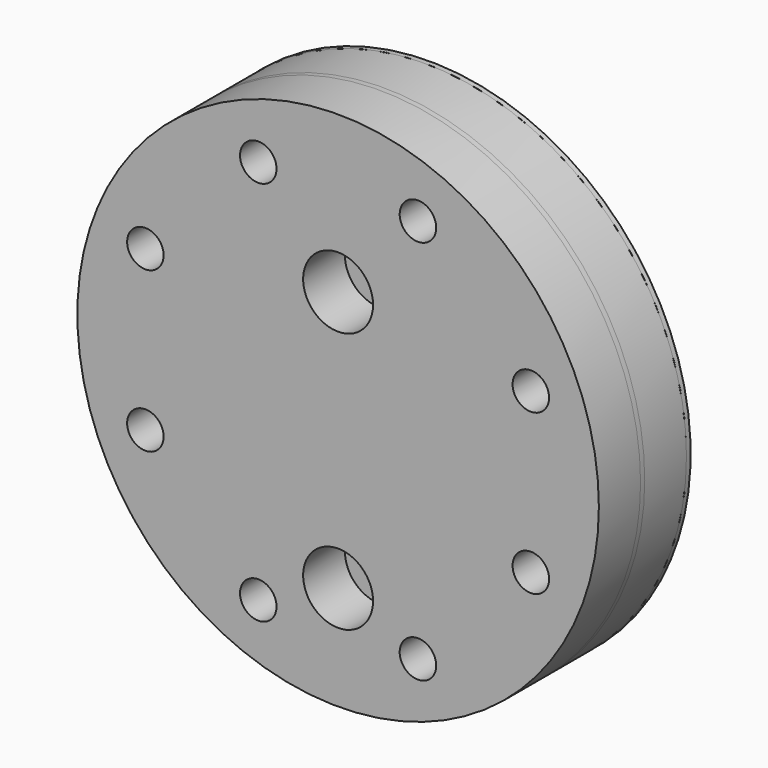
from build123d import *

# Parameters (mm, degrees)
F1_R      = 25
F1_R_2    = 15
F2_DEPTH  = 5
F0_R      = 1.75
F3_DEPTH  = 5.001
F4_DEPTH  = 0.5
F5_R      = 25
F6_DEPTH  = 5
F7_DEPTH  = 10.501
F8_R      = 3.35
F9_DEPTH  = 10.501
F10_R     = 1.25
F11_DEPTH = 5.501
F12_R     = 25
F12_R_2   = 1.75
F13_DEPTH = 0.5


with BuildPart() as f2:
    # F1 (on Front) → F2 (new body)
    with BuildSketch(Plane.XZ):
        Circle(F1_R)
        Circle(F1_R_2, mode=Mode.SUBTRACT)
    extrude(amount=F2_DEPTH)

    # F0 (on Front) → F3 (cut, through all)
    with BuildSketch(Plane.XZ):
        with Locations((7.6536686473, -18.4775906502)):
            Circle(F0_R)
        with Locations((18.4775906502, -7.6536686473)):
            Circle(F0_R)
        with Locations((18.4775906502, 7.6536686473)):
            Circle(F0_R)
        with Locations((7.6536686473, 18.4775906502)):
            Circle(F0_R)
        with Locations((-7.6536686473, 18.4775906502)):
            Circle(F0_R)
        with Locations((-18.4775906502, 7.6536686473)):
            Circle(F0_R)
        with Locations((-18.4775906502, -7.6536686473)):
            Circle(F0_R)
        with Locations((-7.6536686473, -18.4775906502)):
            Circle(F0_R)
    extrude(amount=F3_DEPTH, mode=Mode.SUBTRACT)


with BuildPart() as f4:
    # F4 (new): a face of the model
    f4_faces = [f2.part.faces().sort_by_distance(p)[0] for p in [
        (-24.2928932188, -5, 0),
    ]]
    extrude(f4_faces, amount=F4_DEPTH)


with BuildPart() as f6:
    # F5 (on face) → F6 (new body)
    with BuildSketch(Plane.XZ.offset(5.5)):
        Circle(F5_R)
    extrude(amount=F6_DEPTH)

    # F0 (on Front) → F7 (cut, through all)
    with BuildSketch(Plane.XZ):
        with Locations((7.6536686473, -18.4775906502)):
            Circle(F0_R)
        with Locations((18.4775906502, -7.6536686473)):
            Circle(F0_R)
        with Locations((18.4775906502, 7.6536686473)):
            Circle(F0_R)
        with Locations((7.6536686473, 18.4775906502)):
            Circle(F0_R)
        with Locations((-7.6536686473, 18.4775906502)):
            Circle(F0_R)
        with Locations((-18.4775906502, 7.6536686473)):
            Circle(F0_R)
        with Locations((-18.4775906502, -7.6536686473)):
            Circle(F0_R)
        with Locations((-7.6536686473, -18.4775906502)):
            Circle(F0_R)
    extrude(amount=F7_DEPTH, mode=Mode.SUBTRACT)

    # F8 (on face) → F9 (cut, through all)
    with BuildSketch(Plane.XZ.offset(10.5)):
        with Locations((0, 10)):
            Circle(F8_R)
        with Locations((0, -15)):
            Circle(F8_R)
    extrude(amount=-F9_DEPTH, mode=Mode.SUBTRACT)


with BuildPart() as f11_tool:
    # F10 (on face) → F11 (new body, through all)
    with BuildSketch(Plane.XZ.offset(5.5)):
        with Locations((0, -15)):
            Circle(F10_R)
    extrude(amount=-F11_DEPTH)


with BuildPart() as f2_1:
    add(f2.part)

    # F11: cut by f11_tool
    add(f11_tool.part, mode=Mode.SUBTRACT)


with BuildPart() as f4_1:
    add(f4.part)

    # F11: cut by f11_tool
    add(f11_tool.part, mode=Mode.SUBTRACT)


with BuildPart() as f13:
    # F12 (on face) → F13 (new body)
    with BuildSketch(Plane(origin=(0, 0, 0), x_dir=(-1, 0, 0), z_dir=(0, 1, 0))):
        Circle(F12_R)
        with Locations((-7.6536686473, -18.4775906502)):
            Circle(F12_R_2, mode=Mode.SUBTRACT)
        with Locations((-18.4775906502, -7.6536686473)):
            Circle(F12_R_2, mode=Mode.SUBTRACT)
        with Locations((7.6536686473, -18.4775906502)):
            Circle(F12_R_2, mode=Mode.SUBTRACT)
        with Locations((18.4775906502, -7.6536686473)):
            Circle(F12_R_2, mode=Mode.SUBTRACT)
        with Locations((-18.4775906502, 7.6536686473)):
            Circle(F12_R_2, mode=Mode.SUBTRACT)
        with Locations((-7.6536686473, 18.4775906502)):
            Circle(F12_R_2, mode=Mode.SUBTRACT)
        with Locations((18.4775906502, 7.6536686473)):
            Circle(F12_R_2, mode=Mode.SUBTRACT)
        with Locations((7.6536686473, 18.4775906502)):
            Circle(F12_R_2, mode=Mode.SUBTRACT)
    extrude(amount=F13_DEPTH)


solid = Compound([f6.part, f2_1.part, f4_1.part, f13.part])
